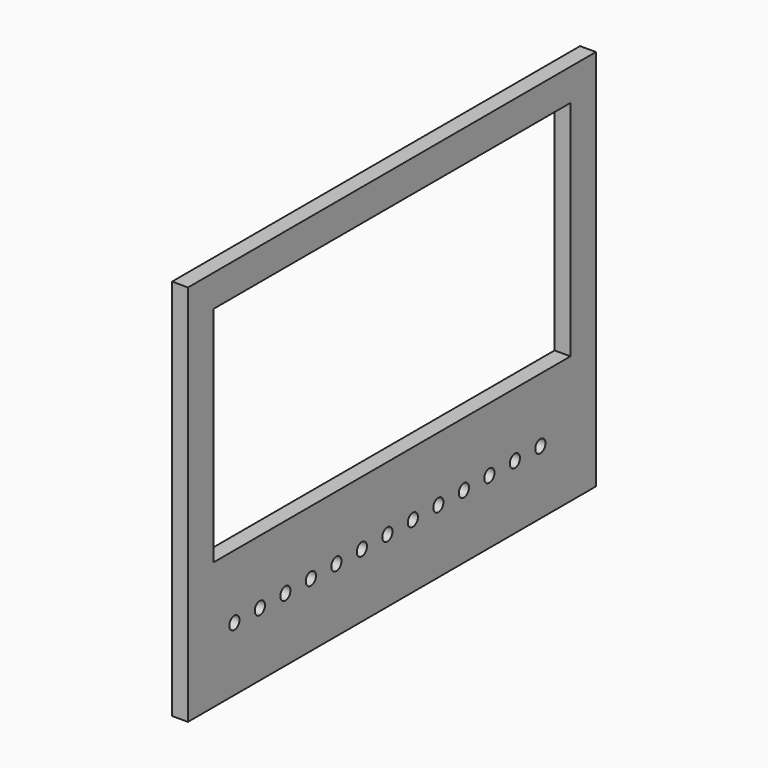
from build123d import *

# Parameters (mm, degrees)
F0_W     = 101.6
F0_H     = 76.2
F0_R     = 1.27
F0_W_2   = 88.9
F0_H_2   = 44.45
F1_DEPTH = 3.175


with BuildPart() as f1:
    # F0 (on Right) → F1 (new body)
    with BuildSketch(Plane.YZ):
        Rectangle(F0_W, F0_H)
        with Locations((-39.243757, -25.4)):
            Circle(F0_R, mode=Mode.SUBTRACT)
        with Locations((-32.893757, -25.4)):
            Circle(F0_R, mode=Mode.SUBTRACT)
        with Locations((-26.543757, -25.4)):
            Circle(F0_R, mode=Mode.SUBTRACT)
        with Locations((-20.193757, -25.4)):
            Circle(F0_R, mode=Mode.SUBTRACT)
        with Locations((-13.843757, -25.4)):
            Circle(F0_R, mode=Mode.SUBTRACT)
        with Locations((-7.493757, -25.4)):
            Circle(F0_R, mode=Mode.SUBTRACT)
        with Locations((-1.143757, -25.4)):
            Circle(F0_R, mode=Mode.SUBTRACT)
        with Locations((5.206243, -25.4)):
            Circle(F0_R, mode=Mode.SUBTRACT)
        with Locations((11.556243, -25.4)):
            Circle(F0_R, mode=Mode.SUBTRACT)
        with Locations((17.906243, -25.4)):
            Circle(F0_R, mode=Mode.SUBTRACT)
        with Locations((24.256243, -25.4)):
            Circle(F0_R, mode=Mode.SUBTRACT)
        with Locations((30.606243, -25.4)):
            Circle(F0_R, mode=Mode.SUBTRACT)
        with Locations((36.956243, -25.4)):
            Circle(F0_R, mode=Mode.SUBTRACT)
        with Locations((0, 9.525)):
            Rectangle(F0_W_2, F0_H_2, mode=Mode.SUBTRACT)
    extrude(amount=F1_DEPTH)


solid = f1.part
